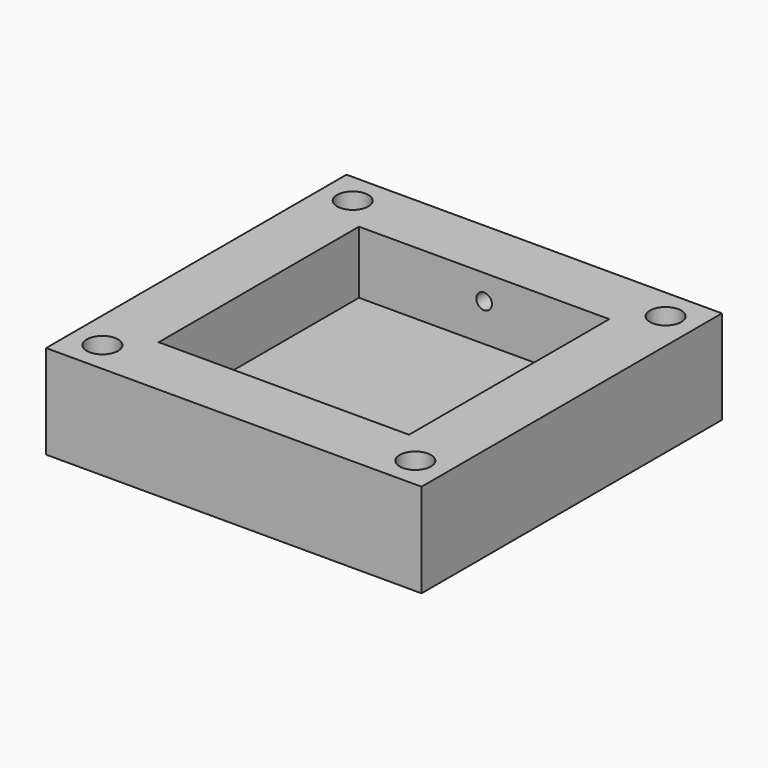
from build123d import *

# Parameters (mm, degrees)
F0_W     = 76.2
F0_H     = 76.2
F0_W_2   = 50.8
F0_H_2   = 50.8
F1_DEPTH = 6.35
F2_DEPTH = 19.05
F3_R     = 1.5875
F4_DEPTH = 25.4
F5_R     = 3.175
F6_DEPTH = 19.051


with BuildPart() as f1:
    # F0 (on Top) → F1 (new body)
    with BuildSketch(Plane.XY):
        Rectangle(F0_W, F0_H)
        Rectangle(F0_W_2, F0_H_2, mode=Mode.SUBTRACT)
        Rectangle(F0_W_2, F0_H_2)
    extrude(amount=F1_DEPTH)

    # F0 (on Top) → F2 (join)
    with BuildSketch(Plane.XY):
        Rectangle(F0_W, F0_H)
        Rectangle(F0_W_2, F0_H_2, mode=Mode.SUBTRACT)
    extrude(amount=F2_DEPTH)

    # F3 (on face) → F4 (cut)
    with BuildSketch(Plane(origin=(0, 38.1, 0), x_dir=(-1, 0, 0), z_dir=(0, 1, 0))):
        with Locations((0, 13.97)):
            Circle(F3_R)
    extrude(amount=-F4_DEPTH, mode=Mode.SUBTRACT)

    # F5 (on face) → F6 (cut, through all)
    with BuildSketch(Plane.XY.offset(19.05)):
        with Locations((-31.75, 31.75)):
            Circle(F5_R)
        with Locations((31.75, 31.75)):
            Circle(F5_R)
        with Locations((31.75, -31.75)):
            Circle(F5_R)
        with Locations((-31.75, -31.75)):
            Circle(F5_R)
    extrude(amount=-F6_DEPTH, mode=Mode.SUBTRACT)


solid = f1.part
